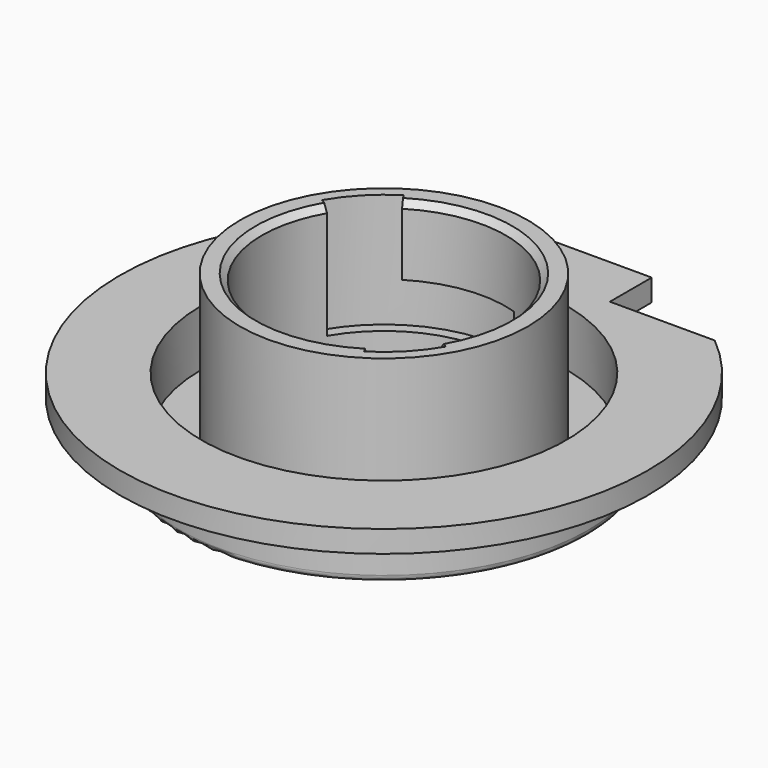
from build123d import *

# Parameters (mm, degrees)
F3_DEPTH       = 5.001
F4_W           = 0.7
F4_H           = 2.9
F5_ANGLE_BACK  = 17.589911292
F5_ANGLE       = 77.589911292
F6_W           = 0.7
F6_H           = 7.3
F7_ANGLE_START = 300
F7_ANGLE       = 28
F8_SIZE        = 0.4
F9_R           = 0.4


with BuildPart() as f1:
    # F0 (on Front) → F1 (revolve)
    with BuildSketch(Plane.XZ):
        Polygon((-13.05, 15.0180591579), (-7.8, 15.0180591579), (-7.8, 25.6180591579), (-9.2, 25.6180591579), (-9.2, 16.4180591579), (-11.65, 16.4180591579), (-11.65, 20.0180591579), (-16.875, 20.0180591579), (-16.875, 18.6180591579), (-13.05, 18.6180591579), align=None)
    revolve(axis=Axis((0, 0, 52.8953172941), (0, 0, 1)))

    # F2 (on face) → F3 (cut, through all)
    with BuildSketch(Plane.XY.offset(20.0180591579)):
        with BuildLine():
            Line((-4, 13.05), (-4, 16.3940728619))
            ThreePointArc((-4, 16.3940728619), (-7.5371728948, 15.0982333322), (-10.6987440852, 13.05))
            Line((-10.6987440852, 13.05), (-4, 13.05))
        make_face()
        with BuildLine():
            ThreePointArc((10.6987440852, 13.05), (7.5371728948, 15.0982333322), (4, 16.3940728619))
            Line((4, 16.3940728619), (4, 13.05))
            Line((4, 13.05), (10.6987440852, 13.05))
        make_face()
        with BuildLine():
            ThreePointArc((4, 16.3940728619), (0, 16.875), (-4, 16.3940728619))
            Line((-4, 16.3940728619), (4, 16.3940728619))
        make_face()
    extrude(amount=-F3_DEPTH, mode=Mode.SUBTRACT)

    # F4 (on Right) → F5 (revolve, cut)
    with BuildSketch(Plane.YZ, mode=Mode.PRIVATE) as f5_sk:
        with Locations((8.15, 19.7680591579)):
            Rectangle(F4_W, F4_H)
        with Locations((-8.15, 19.7680591579)):
            Rectangle(F4_W, F4_H)
    revolve(f5_sk.sketch.rotate(Axis((0, 0, 20.0180591579), (0, 0, 1)), -F5_ANGLE_BACK), axis=Axis((0, 0, 20.0180591579), (0, 0, 1)), revolution_arc=F5_ANGLE, mode=Mode.SUBTRACT)

    # F6 (on Right) → F7 (revolve, cut)
    with BuildSketch(Plane.YZ, mode=Mode.PRIVATE) as f7_sk:
        with Locations((8.15, 21.9680591579)):
            Rectangle(F6_W, F6_H)
        with Locations((-8.15, 21.9680591579)):
            Rectangle(F6_W, F6_H)
    revolve(f7_sk.sketch.rotate(Axis((0, 0, 15.0180591579), (0, 0, -1)), F7_ANGLE_START), axis=Axis((0, 0, 15.0180591579), (0, 0, -1)), revolution_arc=F7_ANGLE, mode=Mode.SUBTRACT)

    # F8
    f8_edges = [f1.edges().sort_by_distance(p)[0] for p in [
        (5.418335, 5.61085, 25.618059),
        (-7.534221, 2.018789, 25.618059),
    ]]
    chamfer(f8_edges, length=F8_SIZE)

    # F9
    f9_edges = [f1.edges().sort_by_distance(p)[0] for p in [
        (13.05, 0, 15.018059),
    ]]
    fillet(f9_edges, radius=F9_R)


solid = f1.part
